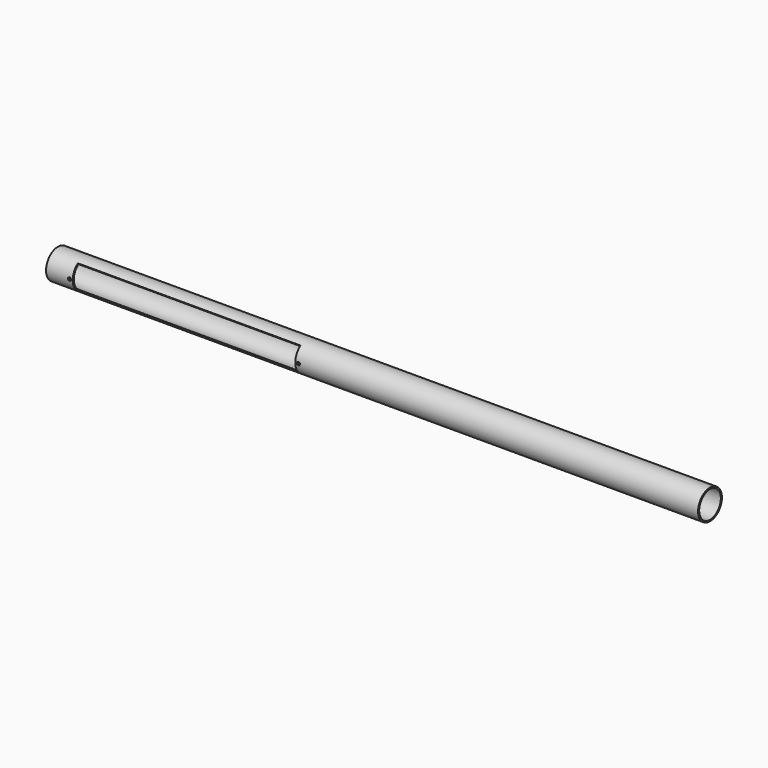
from build123d import *

# Parameters (mm, degrees)
F0_R     = 30.1625
F0_R_2   = 27.3939
F1_DEPTH = 1320.8
F4_DEPTH = 450.85
F5_R     = 3.175
F6_DEPTH = 76.2
F7_R     = 2.5527
F8_DEPTH = 76.2


with BuildPart() as f1:
    # F0 (on Right) → F1 (new body)
    with BuildSketch(Plane.YZ):
        Circle(F0_R)
        Circle(F0_R_2, mode=Mode.SUBTRACT)
    extrude(amount=F1_DEPTH)

    # F3 (on offset) → F4 (cut)
    with BuildSketch(Plane(origin=(53.975, 0, 0), x_dir=(0, -1, 0), z_dir=(-1, 0, 0))):
        Polygon((28.7277697928, 42.2795656081), (0, 0), (35.903159529, 0), align=None)
        Polygon((35.903159529, 0), (0, 0), (28.4545668533, -41.8774842184), align=None)
    extrude(amount=-F4_DEPTH, mode=Mode.SUBTRACT)

    # F5 (on Front) → F6 (cut)
    with BuildSketch(Plane.XZ):
        with Locations((47.625, 0)):
            Circle(F5_R)
        with Locations((511.175, 0)):
            Circle(F5_R)
    extrude(amount=F6_DEPTH, mode=Mode.SUBTRACT)

    # F7 (on Front) → F8 (cut)
    with BuildSketch(Plane.XZ):
        with Locations((85.725, 0)):
            Circle(F7_R)
        with Locations((473.075, 0)):
            Circle(F7_R)
    extrude(amount=-F8_DEPTH, mode=Mode.SUBTRACT)


solid = f1.part
